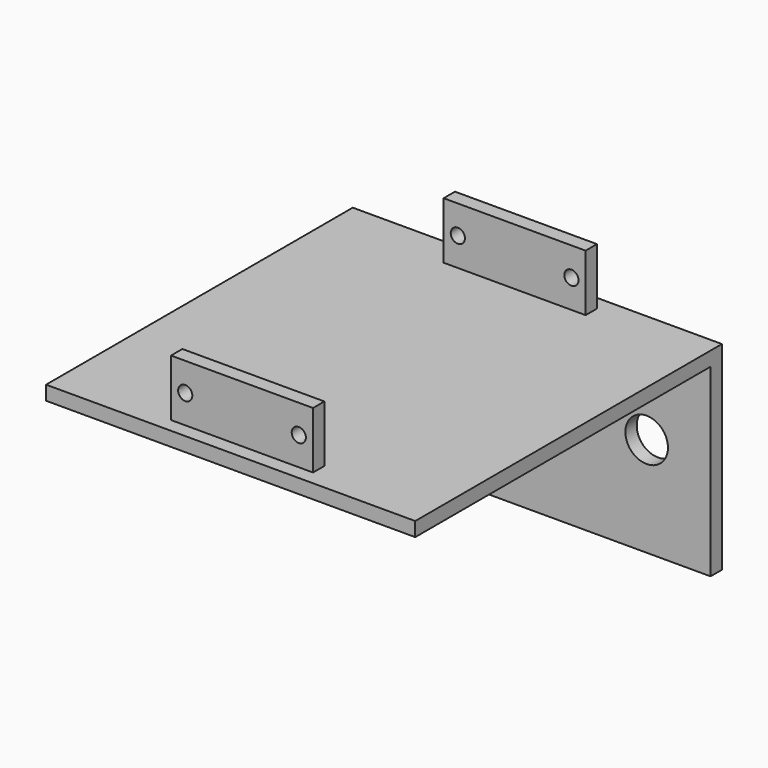
from build123d import *

# Parameters (mm, degrees)
F0_W     = 130
F0_H     = 70
F0_R     = 7.5
F1_DEPTH = 5
F2_W     = 130
F2_H     = 5
F3_DEPTH = 130
F4_W     = 50
F4_H     = 5
F5_DEPTH = 20
F6_R     = 2.5
F7_DEPTH = 130.001


with BuildPart() as f1:
    # F0 (on Front) → F1 (new body)
    with BuildSketch(Plane.XZ):
        with Locations((65, 35)):
            Rectangle(F0_W, F0_H)
        with Locations((22.5, 35)):
            Circle(F0_R, mode=Mode.SUBTRACT)
        with Locations((107.5, 35)):
            Circle(F0_R, mode=Mode.SUBTRACT)
    extrude(amount=F1_DEPTH)

    # F2 (on face) → F3 (join)
    with BuildSketch(Plane.XZ.offset(5)):
        with Locations((65, 67.5)):
            Rectangle(F2_W, F2_H)
    extrude(amount=F3_DEPTH)

    # F4 (on face) → F5 (join)
    with BuildSketch(Plane.XY.offset(70)):
        with Locations((65, -127.5)):
            Rectangle(F4_W, F4_H)
        with Locations((65, -7.5)):
            Rectangle(F4_W, F4_H)
    extrude(amount=F5_DEPTH)

    # F6 (on face) → F7 (cut, through all)
    with BuildSketch(Plane.XZ.offset(130)):
        with Locations((45, 80)):
            Circle(F6_R)
        with Locations((85, 80)):
            Circle(F6_R)
    extrude(amount=-F7_DEPTH, mode=Mode.SUBTRACT)


solid = f1.part
